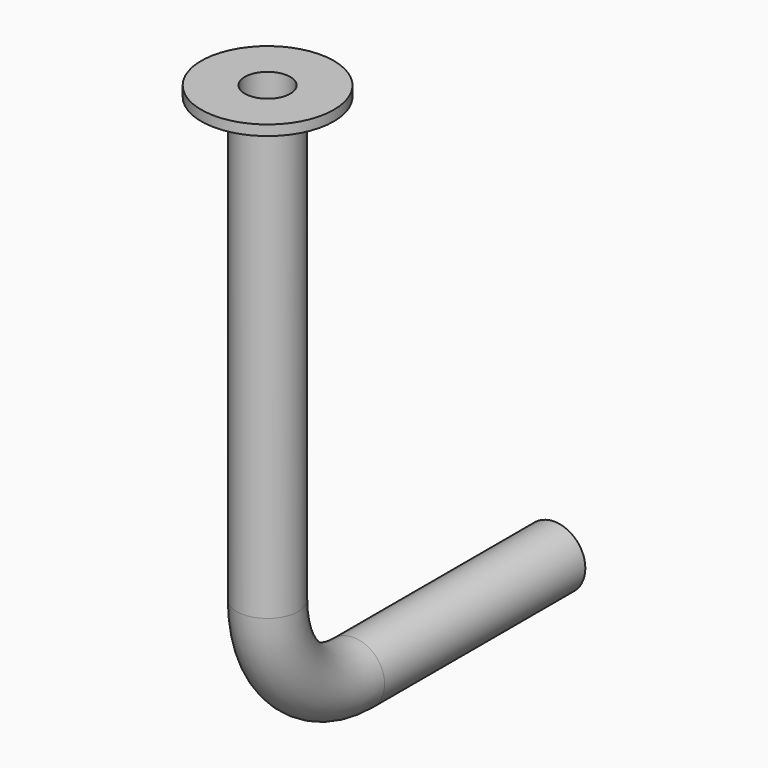
from build123d import *

# Parameters (mm, degrees)
F2_R   = 8.65
F2_R_2 = 6.35


with BuildPart() as f1:
    # F0 (on Front) → F1 (revolve)
    with BuildSketch(Plane.XZ):
        Polygon((6.35, 6.4351068075), (6.35, 0), (8.65, 0), (18.5, 3.5851068075), (18.5, 6.4351068075), align=None)
    revolve(axis=Axis((0, 0, 5.6449943222), (0, 0, 1)))

    # F4: sweep along a path in F3
    with BuildLine(Plane.YZ) as f4_path:
        Line((0, 0), (0, -120))
        ThreePointArc((0, -120), (8.7867965644, -141.2132034356), (30, -150))
        Line((30, -150), (100, -150))
    # F2 (on Top) → F4 (sweep)
    with BuildSketch(Plane.XY):
        Circle(F2_R)
        Circle(F2_R_2, mode=Mode.SUBTRACT)
    sweep(path=f4_path.line)


solid = f1.part
